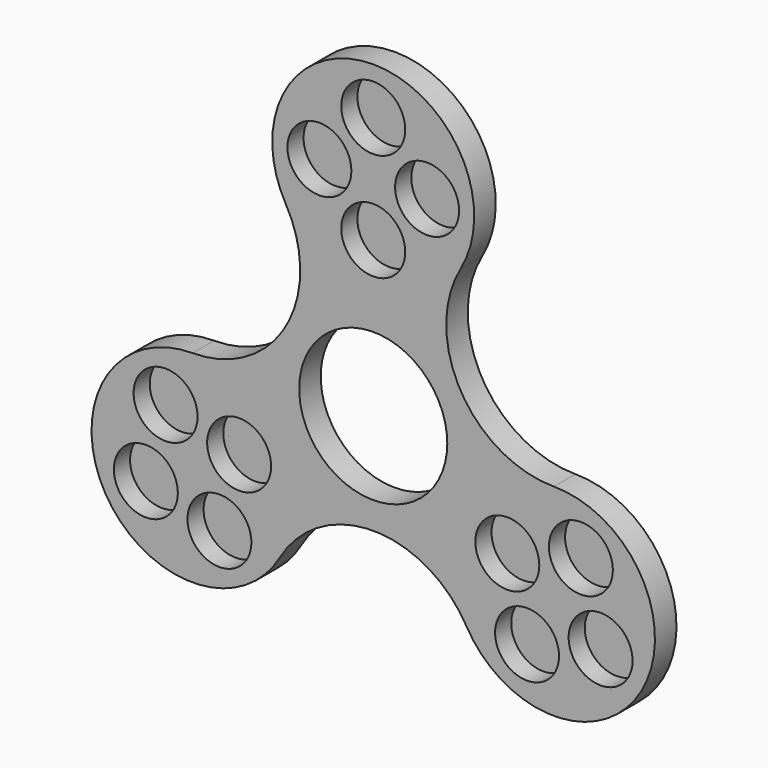
from build123d import *

# Parameters (mm, degrees)
F0_R     = 4.75
F0_R_2   = 11
F1_DEPTH = 4
F2_DEPTH = 1


with BuildPart() as f1:
    # F0 (on Front) → F1 (new body)
    with BuildSketch(Plane.XZ):
        with BuildLine():
            ThreePointArc((-12.990381, 23.5), (-12.990381, 7.5), (-26.846788, -0.5))
            ThreePointArc((-26.846788, -0.5), (-39.837169, -23), (-13.856406, -23))
            ThreePointArc((-13.856406, -23), (0, -15), (13.856406, -23))
            ThreePointArc((13.856406, -23), (39.837169, -23), (26.846788, -0.5))
            ThreePointArc((26.846788, -0.5), (12.990381, 7.5), (12.990381, 23.5))
            ThreePointArc((12.990381, 23.5), (0, 46), (-12.990381, 23.5))
        make_face()
        with Locations((-22.846788, -22.428203)):
            Circle(F0_R, mode=Mode.SUBTRACT)
        with Locations((-33.774991, -19.5)):
            Circle(F0_R, mode=Mode.SUBTRACT)
        with Locations((-19.918584, -11.5)):
            Circle(F0_R, mode=Mode.SUBTRACT)
        with Locations((-30.846788, -8.571797)):
            Circle(F0_R, mode=Mode.SUBTRACT)
        with Locations((19.918584, -11.5)):
            Circle(F0_R, mode=Mode.SUBTRACT)
        with Locations((22.846788, -22.428203)):
            Circle(F0_R, mode=Mode.SUBTRACT)
        with Locations((33.774991, -19.5)):
            Circle(F0_R, mode=Mode.SUBTRACT)
        Circle(F0_R_2, mode=Mode.SUBTRACT)
        with Locations((30.846788, -8.571797)):
            Circle(F0_R, mode=Mode.SUBTRACT)
        with Locations((-8, 31)):
            Circle(F0_R, mode=Mode.SUBTRACT)
        with Locations((0, 23)):
            Circle(F0_R, mode=Mode.SUBTRACT)
        with Locations((8, 31)):
            Circle(F0_R, mode=Mode.SUBTRACT)
        with Locations((0, 39)):
            Circle(F0_R, mode=Mode.SUBTRACT)
    extrude(amount=F1_DEPTH)

    # F0 (on Front) → F2 (join)
    with BuildSketch(Plane.XZ):
        with Locations((-8, 31)):
            Circle(F0_R)
        with Locations((0, 39)):
            Circle(F0_R)
        with Locations((8, 31)):
            Circle(F0_R)
        with Locations((0, 23)):
            Circle(F0_R)
        with Locations((-30.846788, -8.571797)):
            Circle(F0_R)
        with Locations((-33.774991, -19.5)):
            Circle(F0_R)
        with Locations((-22.846788, -22.428203)):
            Circle(F0_R)
        with Locations((-19.918584, -11.5)):
            Circle(F0_R)
        with Locations((22.846788, -22.428203)):
            Circle(F0_R)
        with Locations((19.918584, -11.5)):
            Circle(F0_R)
        with Locations((30.846788, -8.571797)):
            Circle(F0_R)
        with Locations((33.774991, -19.5)):
            Circle(F0_R)
    extrude(amount=F2_DEPTH)


solid = f1.part
